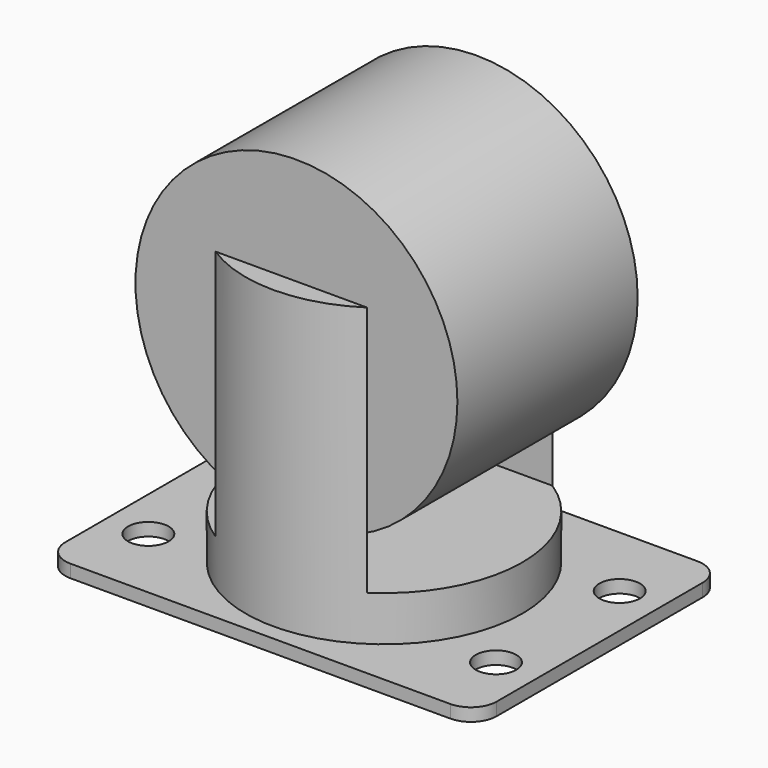
from build123d import *

# Parameters (mm, degrees)
SKETCH_W          = 67
SKETCH_H          = 48
SKETCH_R          = 3.15
SKETCH_R_2        = 5
PAD_DEPTH         = 2
FILLET_R          = 4
SKETCH001_R       = 21.5
PAD001_DEPTH      = 46
SKETCH002_W       = 36
SKETCH002_H       = 39
POCKET_DEPTH      = 33.501
POCKET_DEPTH_BACK = -33.501
SKETCH003_R       = 25
PAD002_DEPTH      = 35


with BuildPart() as part:
    # Sketch → Pad (new body)
    with BuildSketch(Plane.XY):
        Rectangle(SKETCH_W, SKETCH_H)
        with Locations((-27, 12)):
            Circle(SKETCH_R, mode=Mode.SUBTRACT)
        with Locations((27, -12)):
            Circle(SKETCH_R, mode=Mode.SUBTRACT)
        with Locations((27, 12)):
            Circle(SKETCH_R, mode=Mode.SUBTRACT)
        with Locations((-27, -12)):
            Circle(SKETCH_R, mode=Mode.SUBTRACT)
        Circle(SKETCH_R_2, mode=Mode.SUBTRACT)
    extrude(amount=PAD_DEPTH)

    # Fillet
    fillet_edges = [part.edges().sort_by_distance(p)[0] for p in [
        (-33.5, -24, 1),
        (33.5, -24, 1),
        (33.5, 24, 1),
        (-33.5, 24, 1),
    ]]
    fillet(fillet_edges, radius=FILLET_R)

    # Sketch001 (on Face5 of Fillet) → Pad001 (join)
    with BuildSketch(Plane.XY.offset(2)):
        Circle(SKETCH001_R)
    extrude(amount=PAD001_DEPTH)

    # Sketch002 → Pocket (cut, two sides)
    with BuildSketch(Plane.YZ) as pocket_sk:
        with Locations((0, 28.5)):
            Rectangle(SKETCH002_W, SKETCH002_H)
    extrude(amount=-POCKET_DEPTH, mode=Mode.SUBTRACT)
    extrude(pocket_sk.sketch, amount=-POCKET_DEPTH_BACK, mode=Mode.SUBTRACT)

    # Sketch003 (on Face21 of Pocket) → Pad002 (join)
    with BuildSketch(Plane.XZ.offset(-18)):
        with Locations((0, 39)):
            Circle(SKETCH003_R)
    extrude(amount=PAD002_DEPTH)


solid = part.part
